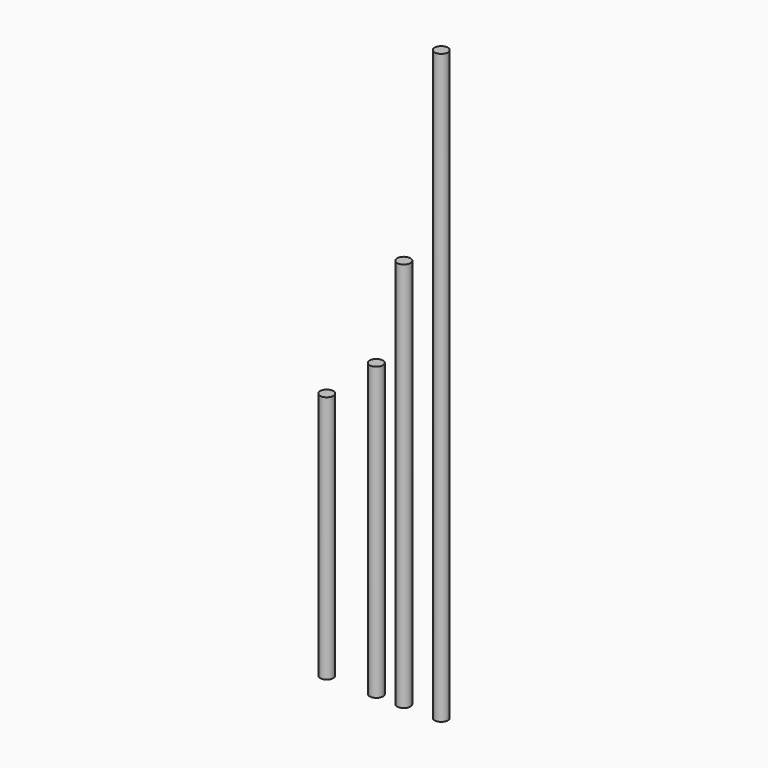
from build123d import *

# Parameters (mm, degrees)
F0_R     = 4
F1_DEPTH = 176
F2_DEPTH = 235.7
F3_DEPTH = 355
F4_R     = 4
F5_DEPTH = 150


with BuildPart() as f1:
    # F0 (on Top) → F1 (new body)
    with BuildSketch(Plane.XY):
        Circle(F0_R)
    extrude(amount=F1_DEPTH)


with BuildPart() as f2:
    # F0 (on Top) → F2 (new body)
    with BuildSketch(Plane.XY):
        with Locations((16.606946, 0)):
            Circle(F0_R)
    extrude(amount=F2_DEPTH)


with BuildPart() as f3:
    # F0 (on Top) → F3 (new body)
    with BuildSketch(Plane.XY):
        with Locations((39.203439, 0)):
            Circle(F0_R)
    extrude(amount=F3_DEPTH)


with BuildPart() as f5:
    # F4 (on Top) → F5 (new body)
    with BuildSketch(Plane.XY):
        with Locations((-29.926899, 0)):
            Circle(F4_R)
    extrude(amount=F5_DEPTH)


solid = Compound([f1.part, f2.part, f3.part, f5.part])
